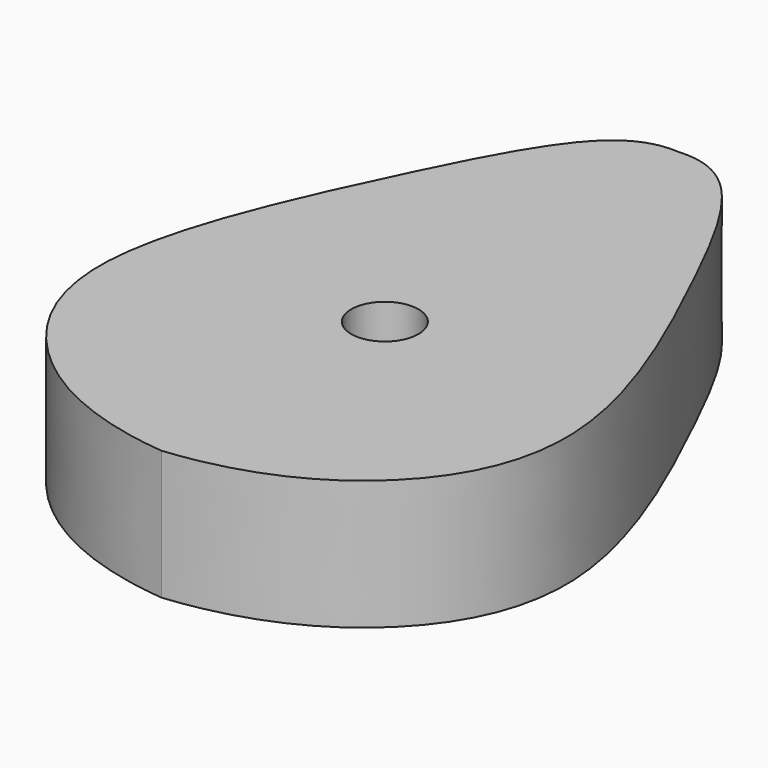
from build123d import *

# Parameters (mm, degrees)
F1_DEPTH = 12.7
F2_R     = 3.302
F3_DEPTH = 12.7


with BuildPart() as f1:
    # F0 (on Top) → F1 (new body)
    with BuildSketch(Plane.XY):
        with BuildLine():
            add(Edge.make_bspline(
                [(0, 41.5192297852), (1.9751904324, 41.6816747305), (6.9650308223, 40.0811600619), (14.9034229142, 24.4679856725), (25.7238773111, 0.4422597255), (18.8626873127, -15.4860236407), (7.859795797, -21.2077794272), (0, -21.9807702148)],
                knots=[0, 0, 0, 0, 0.1222139189, 0.3296415608, 0.5861264557, 0.7792843851, 1, 1, 1, 1], degree=3))
            add(Edge.make_bspline(
                [(0, 41.5192297852), (-1.9751904324, 41.6816747305), (-6.9650308223, 40.0811600619), (-14.9034229142, 24.4679856725), (-25.7238773111, 0.4422597255), (-18.8626873127, -15.4860236407), (-7.859795797, -21.2077794272), (0, -21.9807702148)],
                knots=[0, 0, 0, 0, 0.1222139189, 0.3296415608, 0.5861264557, 0.7792843851, 1, 1, 1, 1], degree=3))
        make_face()
    extrude(amount=F1_DEPTH)

    # F2 (on face) → F3 (cut)
    with BuildSketch(Plane.XY.offset(12.7)):
        with Locations((0, 5.4480545598)):
            Circle(F2_R)
    extrude(amount=-F3_DEPTH, mode=Mode.SUBTRACT)


solid = f1.part
